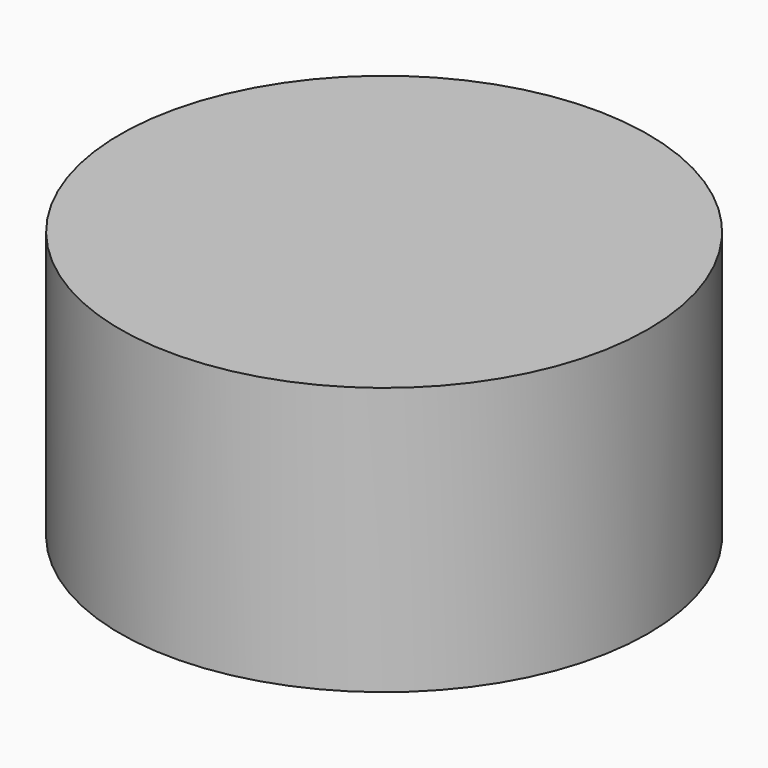
from build123d import *

# Parameters (mm, degrees)
CYLINDER_R     = 14.7828
CYLINDER_DEPTH = 15


with BuildPart() as part:
    # Cylinder → Cylinder (new body)
    with BuildSketch(Plane.XY.offset(-2.5)):
        Circle(CYLINDER_R)
    extrude(amount=CYLINDER_DEPTH)


solid = part.part
